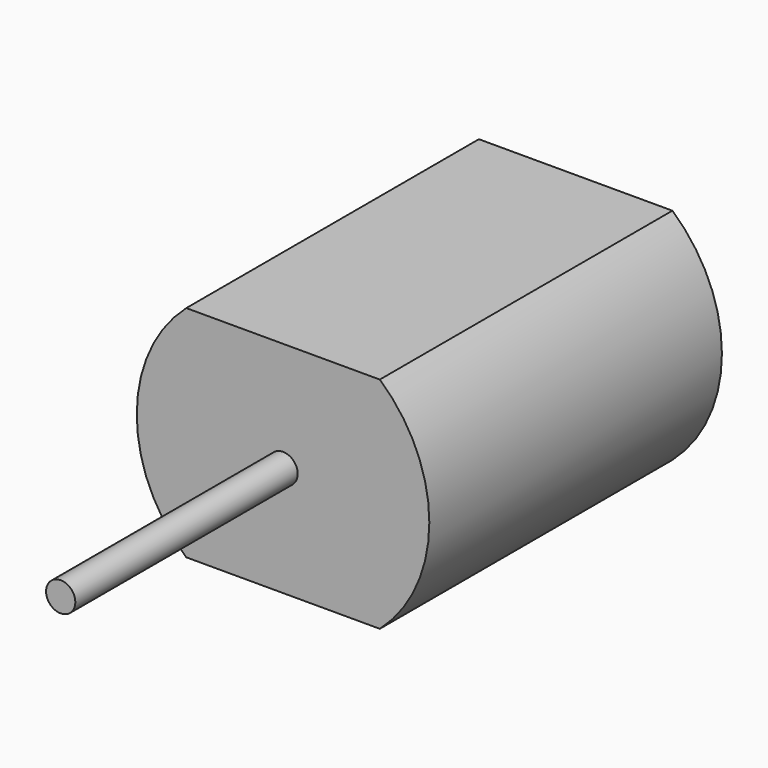
from build123d import *

# Parameters (mm, degrees)
F1_DEPTH = 25
F2_W     = 2.4
F2_H     = 0.1
F3_DEPTH = 3
F4_R     = 3
F4_R_2   = 1
F5_DEPTH = 1
F6_R     = 1
F7_DEPTH = 1.7
F8_R     = 1
F9_DEPTH = 19


with BuildPart() as f1:
    # F0 (on Front) → F1 (new body)
    with BuildSketch(Plane.XZ):
        with BuildLine():
            Line((6.614378, 7.5), (-6.614378, 7.5))
            ThreePointArc((-6.614378, 7.5), (-10, 0), (-6.614378, -7.5))
            Line((-6.614378, -7.5), (6.614378, -7.5))
            ThreePointArc((6.614378, -7.5), (10, 0), (6.614378, 7.5))
        make_face()
    extrude(amount=F1_DEPTH)

    # F2 (on face) → F3 (join)
    with BuildSketch(Plane(origin=(0, 0, 0), x_dir=(-1, 0, 0), z_dir=(0, 1, 0))):
        with Locations((-4.8, 0)):
            Rectangle(F2_W, F2_H)
        with Locations((4.8, 0)):
            Rectangle(F2_W, F2_H)
    extrude(amount=F3_DEPTH)

    # F4 (on face) → F5 (join)
    with BuildSketch(Plane(origin=(0, 0, 0), x_dir=(-1, 0, 0), z_dir=(0, 1, 0))):
        Circle(F4_R)
        Circle(F4_R_2, mode=Mode.SUBTRACT)
    extrude(amount=F5_DEPTH)

    # F6 (on face) → F7 (join)
    with BuildSketch(Plane(origin=(0, 0, 0), x_dir=(-1, 0, 0), z_dir=(0, 1, 0))):
        Circle(F6_R)
    extrude(amount=F7_DEPTH)

    # F8 (on face) → F9 (join)
    with BuildSketch(Plane.XZ.offset(25)):
        Circle(F8_R)
    extrude(amount=F9_DEPTH)


solid = f1.part
